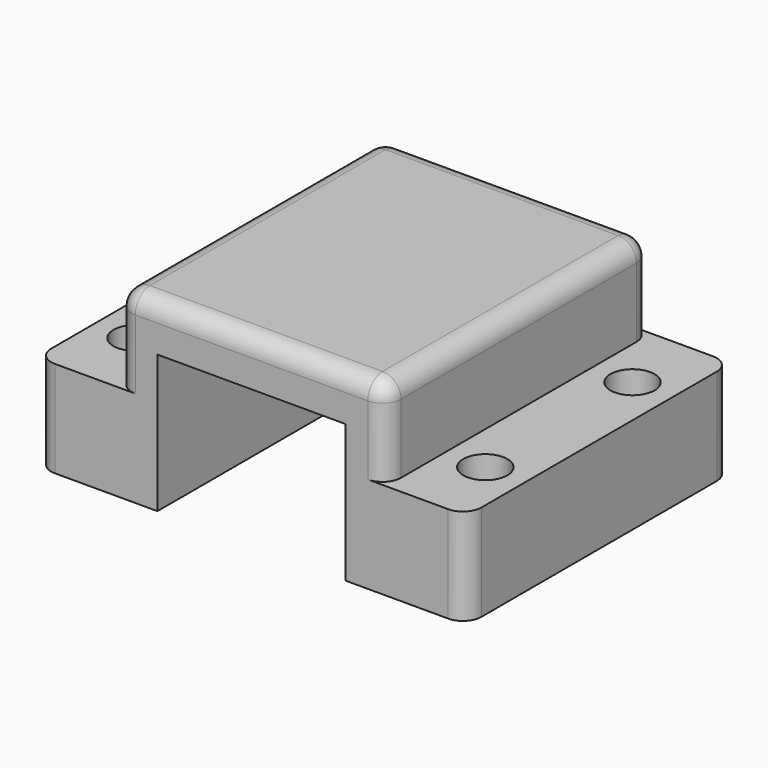
from build123d import *

# Parameters (mm, degrees)
F1_DEPTH = 22.86
F2_R     = 1.27
F3_R     = 1.524
F4_DEPTH = 6.65
F5_R     = 1.27


with BuildPart() as f1:
    # F0 (on Front) → F1 (new body)
    with BuildSketch(Plane.XZ):
        Polygon((-14.85, 6.65), (-14.85, 0), (-6.5, 0), (-6.5, 9.52), (0, 9.52), (0, 12.7), (-9.3, 12.7), (-9.3, 6.65), align=None)
        Polygon((0, 12.7), (0, 9.52), (6.5, 9.52), (6.5, 0), (14.85, 0), (14.85, 6.65), (9.3, 6.65), (9.3, 12.7), align=None)
    extrude(amount=F1_DEPTH)

    # F2
    f2_edges = [f1.edges().sort_by_distance(p)[0] for p in [
        (9.3, -11.43, 12.7),
        (-9.3, -11.43, 12.7),
    ]]
    fillet(f2_edges, radius=F2_R)

    # F3 (on face) → F4 (cut, through all)
    with BuildSketch(Plane.XY.offset(6.65)):
        with BuildLine():
            ThreePointArc((-10.551, -5.08), (-10.997369, -4.002369), (-12.075, -3.556))
            Line((-12.075, -3.556), (-12.075, -5.08))
            Line((-12.075, -5.08), (-12.075, -6.604))
            ThreePointArc((-12.075, -6.604), (-10.997369, -6.157631), (-10.551, -5.08))
        make_face()
        with BuildLine():
            ThreePointArc((-10.551, -17.78), (-10.997369, -16.702369), (-12.075, -16.256))
            Line((-12.075, -16.256), (-12.075, -17.78))
            Line((-12.075, -17.78), (-12.075, -19.304))
            ThreePointArc((-12.075, -19.304), (-10.997369, -18.857631), (-10.551, -17.78))
        make_face()
        with BuildLine():
            Line((-12.075, -17.78), (-12.075, -16.256))
            ThreePointArc((-12.075, -16.256), (-13.599, -17.78), (-12.075, -19.304))
            Line((-12.075, -19.304), (-12.075, -17.78))
        make_face()
        with BuildLine():
            Line((-12.075, -5.08), (-12.075, -3.556))
            ThreePointArc((-12.075, -3.556), (-13.599, -5.08), (-12.075, -6.604))
            Line((-12.075, -6.604), (-12.075, -5.08))
        make_face()
        with Locations((12.075, -5.08)):
            Circle(F3_R)
        with Locations((12.075, -17.78)):
            Circle(F3_R)
    extrude(amount=-F4_DEPTH, mode=Mode.SUBTRACT)

    # F5
    f5_edges = [f1.edges().sort_by_distance(p)[0] for p in [
        (14.85, 0, 3.325),
        (9.3, 0, 9.04),
        (-14.85, 0, 3.325),
        (-9.3, -22.86, 9.04),
        (-14.85, -22.86, 3.325),
        (14.85, -22.86, 3.325),
    ]]
    fillet(f5_edges, radius=F5_R)


solid = f1.part
